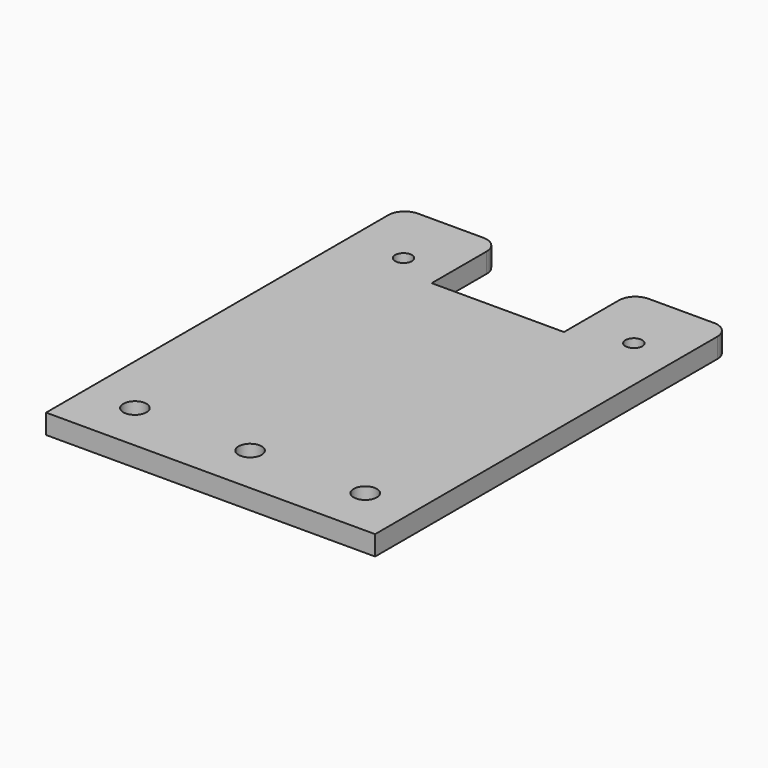
from build123d import *

# Parameters (mm, degrees)
SKETCH_1_W   = 100
SKETCH_1_H   = 135
SKETCH_1_R   = 3.525
SKETCH_1_R_2 = 2.55
PAD_DEPTH    = 6
SKETCH_W     = 40.2
SKETCH_H     = 28.5
POCKET_DEPTH = 6
FILLET_R     = 5


with BuildPart() as part:
    # Sketch_1 → Pad (new body)
    with BuildSketch(Plane.XY):
        with Locations((50, 67.5)):
            Rectangle(SKETCH_1_W, SKETCH_1_H)
        with Locations((15, 15)):
            Circle(SKETCH_1_R, mode=Mode.SUBTRACT)
        with Locations((50, 15)):
            Circle(SKETCH_1_R, mode=Mode.SUBTRACT)
        with Locations((85, 15)):
            Circle(SKETCH_1_R, mode=Mode.SUBTRACT)
        with Locations((16.629946, 115)):
            Circle(SKETCH_1_R_2, mode=Mode.SUBTRACT)
        with Locations((86.629946, 115)):
            Circle(SKETCH_1_R_2, mode=Mode.SUBTRACT)
    extrude(amount=PAD_DEPTH)

    # Sketch (on Face11 of Pad) → Pocket (cut)
    with BuildSketch(Plane.XY.offset(6)):
        with Locations((50, 123.366165)):
            Rectangle(SKETCH_W, SKETCH_H)
    extrude(amount=-POCKET_DEPTH, mode=Mode.SUBTRACT)

    # Fillet
    fillet_edges = [part.edges().sort_by_distance(p)[0] for p in [
        (0, 135, 3),
        (29.9, 135, 3),
        (70.1, 135, 3),
        (100, 135, 3),
    ]]
    fillet(fillet_edges, radius=FILLET_R)


solid = part.part
